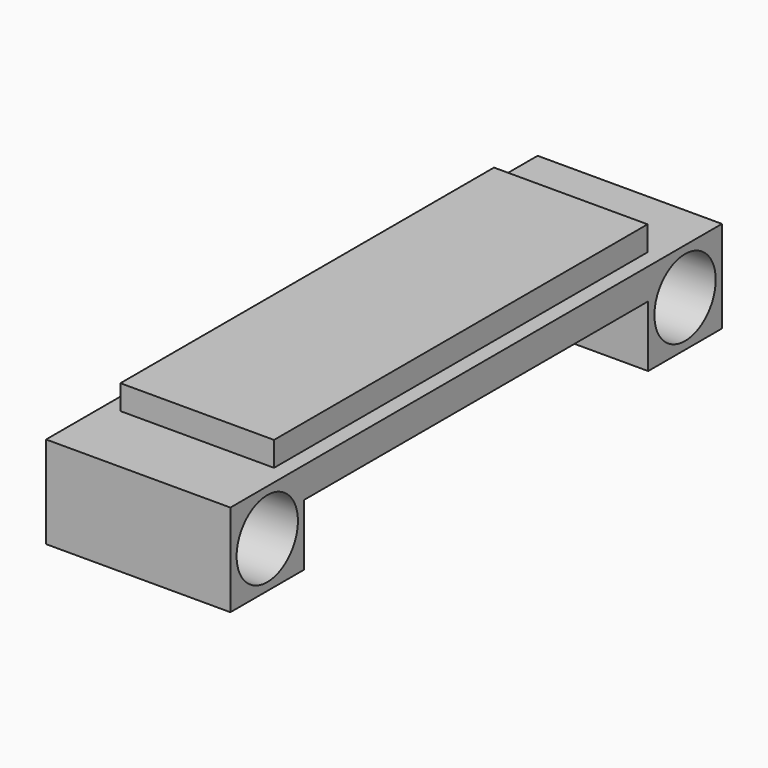
from build123d import *

# Parameters (mm, degrees)
F0_W     = 60
F0_H     = 200
F1_DEPTH = 10
F2_W     = 30
F2_H     = 20
F3_DEPTH = 30
F4_W     = 50
F4_H     = 152
F5_DEPTH = 8
F6_R     = 12.472601
F7_DEPTH = 60.001


with BuildPart() as f1:
    # F0 (on Top) → F1 (new body)
    with BuildSketch(Plane.XY):
        Rectangle(F0_W, F0_H)
    extrude(amount=F1_DEPTH)

    # F2 (on Right) → F3 (join, symmetric)
    with BuildSketch(Plane.YZ):
        with Locations((-85, -10)):
            Rectangle(F2_W, F2_H)
        with Locations((85, -10)):
            Rectangle(F2_W, F2_H)
    extrude(amount=F3_DEPTH, both=True)

    # F4 (on face) → F5 (join)
    with BuildSketch(Plane.XY.offset(10)):
        Rectangle(F4_W, F4_H)
    extrude(amount=F5_DEPTH)

    # F6 (on face) → F7 (cut, through all)
    with BuildSketch(Plane.YZ.offset(30)):
        with Locations((-85, -5)):
            Circle(F6_R)
        with Locations((85, -5)):
            Circle(F6_R)
    extrude(amount=-F7_DEPTH, mode=Mode.SUBTRACT)


solid = f1.part
